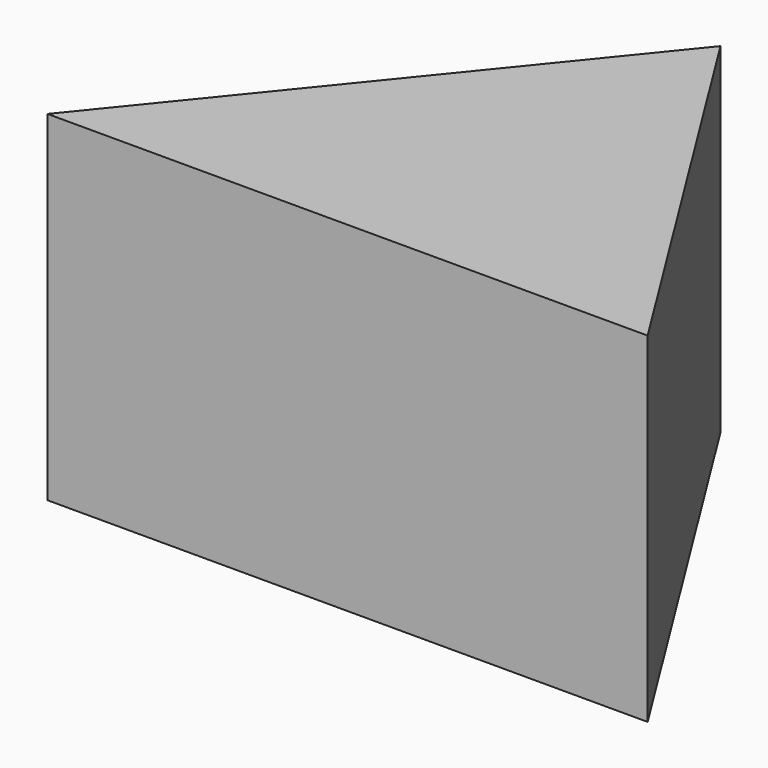
from build123d import *

# Parameters (mm, degrees)
F1_DEPTH = 52.7


with BuildPart() as f1:
    # F0 (on Top) → F1 (new body)
    with BuildSketch(Plane.XY):
        Polygon((40.504172, -24.673315), (0, 40.076312), (-52.484278, -24.673315), align=None)
    extrude(amount=-F1_DEPTH)


solid = f1.part
